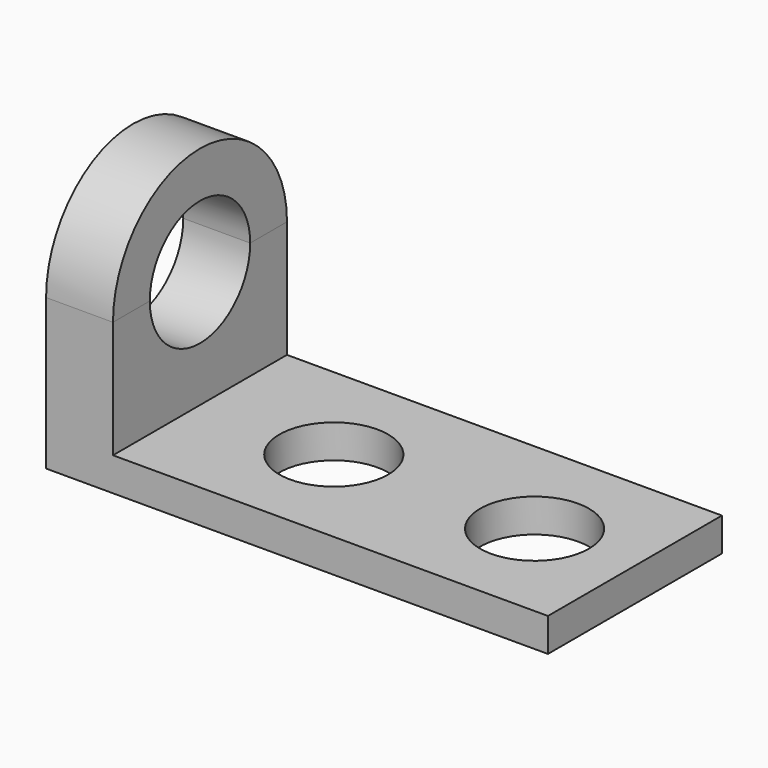
from build123d import *

# Parameters (mm, degrees)
F1_DEPTH = 82.55
F2_R     = 20.6375
F3_DEPTH = 12.701
F5_DEPTH = 25.4
F7_DEPTH = 25.4
F9_DEPTH = 25.4


with BuildPart() as f1:
    # F0 (on Front) → F1 (new body)
    with BuildSketch(Plane.XZ):
        Polygon((0, 57.15), (0, 0), (190.5, 0), (190.5, 12.7), (25.4, 12.7), (25.4, 57.15), align=None)
    extrude(amount=F1_DEPTH)

    # F2 (on face) → F3 (cut, through all)
    with BuildSketch(Plane.XY.offset(12.7)):
        with Locations((76.2, -41.275)):
            Circle(F2_R)
        with Locations((152.4, -41.275)):
            Circle(F2_R)
    extrude(amount=-F3_DEPTH, mode=Mode.SUBTRACT)

    # F8 (on face) → F9 (cut)
    with BuildSketch(Plane.YZ.offset(25.4)):
        with BuildLine():
            ThreePointArc((-65.0875, 57.15), (-41.275, 33.3375), (-17.4625, 57.15))
            Line((-17.4625, 57.15), (-65.0875, 57.15))
        make_face()
    extrude(amount=-F9_DEPTH, mode=Mode.SUBTRACT)


with BuildPart() as f5:
    # F4 (on face) → F5 (new body)
    with BuildSketch(Plane(origin=(0, 0, 0), x_dir=(0, -1, 0), z_dir=(-1, 0, 0))):
        with BuildLine():
            Line((0, 57.15), (82.55, 57.15))
            ThreePointArc((82.55, 57.15), (41.275, 98.425), (0, 57.15))
        make_face()
    extrude(amount=-F5_DEPTH)

    # F6 (on face) → F7 (cut)
    with BuildSketch(Plane.YZ.offset(25.4)):
        with BuildLine():
            Line((-65.0875, 57.15), (-17.4625, 57.15))
            ThreePointArc((-17.4625, 57.15), (-41.275, 80.9625), (-65.0875, 57.15))
        make_face()
    extrude(amount=-F7_DEPTH, mode=Mode.SUBTRACT)


solid = Compound([f1.part, f5.part])
